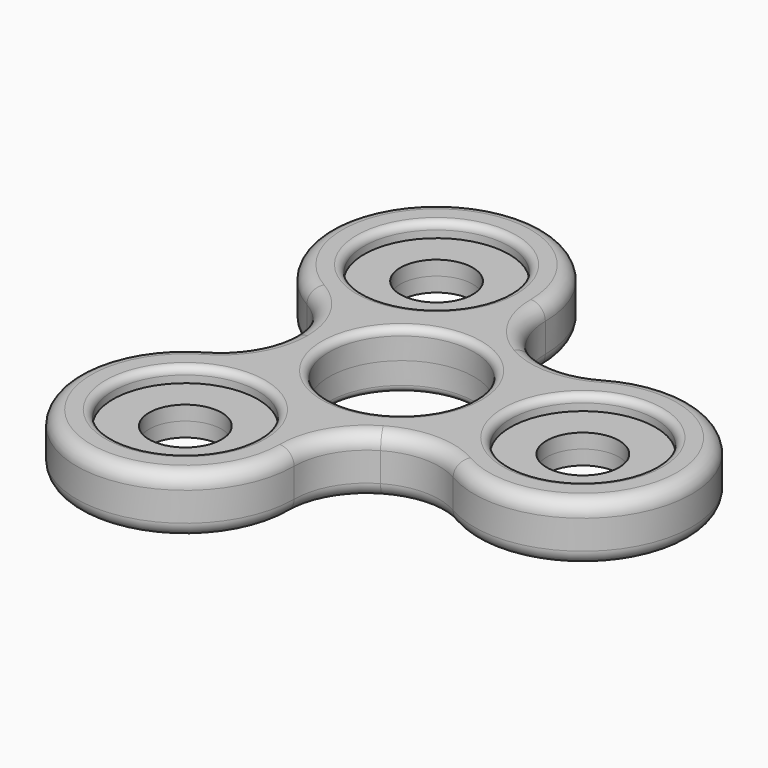
from build123d import *

# Parameters (mm, degrees)
F0_R     = 10
F1_DEPTH = 4
F0_R_2   = 5
F2_DEPTH = 2
F3_R     = 1
F4_R     = 2


with BuildPart() as f1:
    # F0 (on Top) → F1 (new body)
    with BuildSketch(Plane.XY):
        with BuildLine():
            ThreePointArc((7.5, -12.990381), (12.5, -11.650635), (17.5, -12.990381))
            ThreePointArc((17.5, -12.990381), (40, 0), (17.5, 12.990381))
            ThreePointArc((17.5, 12.990381), (12.5, 11.650635), (7.5, 12.990381))
            ThreePointArc((7.5, 12.990381), (3.839746, 16.650635), (2.5, 21.650635))
            ThreePointArc((2.5, 21.650635), (-20, 34.641016), (-20, 8.660254))
            ThreePointArc((-20, 8.660254), (-16.339746, 5), (-15, 0))
            ThreePointArc((-15, 0), (-16.339746, -5), (-20, -8.660254))
            ThreePointArc((-20, -8.660254), (-20, -34.641016), (2.5, -21.650635))
            ThreePointArc((2.5, -21.650635), (3.839746, -16.650635), (7.5, -12.990381))
        make_face()
        with Locations((-12.5, -21.650635)):
            Circle(F0_R, mode=Mode.SUBTRACT)
        Circle(F0_R, mode=Mode.SUBTRACT)
        with Locations((25, 0)):
            Circle(F0_R, mode=Mode.SUBTRACT)
        with Locations((-12.5, 21.650635)):
            Circle(F0_R, mode=Mode.SUBTRACT)
    extrude(amount=F1_DEPTH)

    # F0 (on Top) → F2 (join)
    with BuildSketch(Plane.XY):
        with Locations((-12.5, 21.650635)):
            Circle(F0_R)
        with Locations((-12.5, 21.650635)):
            Circle(F0_R_2, mode=Mode.SUBTRACT)
        with Locations((25, 0)):
            Circle(F0_R)
        with Locations((25, 0)):
            Circle(F0_R_2, mode=Mode.SUBTRACT)
        with Locations((-12.5, -21.650635)):
            Circle(F0_R)
        with Locations((-12.5, -21.650635)):
            Circle(F0_R_2, mode=Mode.SUBTRACT)
    extrude(amount=F2_DEPTH)

    # F3
    f3_edges = [f1.edges().sort_by_distance(p)[0] for p in [
        (-22.5, 21.650635, 4),
        (-10, 0, 4),
        (15, 0, 4),
        (-22.5, -21.650635, 4),
    ]]
    fillet(f3_edges, radius=F3_R)

    # F4
    f4_edges = [f1.edges().sort_by_distance(p)[0] for p in [
        (7.5, 12.990381, 4),
        (-20, 34.641016, 4),
        (-15, 0, 4),
        (-20, -34.641016, 4),
        (7.5, -12.990381, 4),
        (40, 0, 4),
    ]]
    fillet(f4_edges, radius=F4_R)

    # F5: F1 across plane


with BuildPart() as f1_1:
    add(f1.part)
    add(f1.part.mirror(Plane.XY))


solid = f1_1.part
